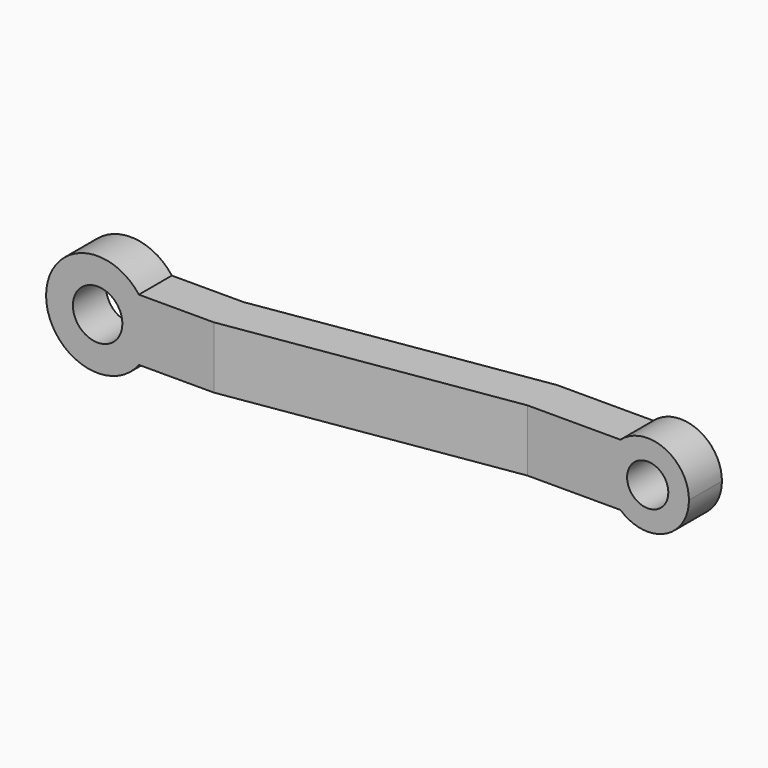
from build123d import *

# Parameters (mm, degrees)
F0_R     = 5
F0_R_2   = 6
F1_DEPTH = 12.5
F3_DEPTH = 12.5


with BuildPart() as f1:
    # F0 (on Front) → F1 (new body, symmetric)
    with BuildSketch(Plane.XZ):
        with BuildLine():
            ThreePointArc((10, 7.5), (11.858541, 3.952847), (12.5, 0))
            ThreePointArc((12.5, 0), (11.858541, -3.952847), (10, -7.5))
            Line((10, -7.5), (118.385622, -7.5))
            ThreePointArc((118.385622, -7.5), (115, 0), (118.385622, 7.5))
            Line((118.385622, 7.5), (10, 7.5))
        make_face()
        with BuildLine():
            ThreePointArc((135, 0), (129.114378, 9.114378), (118.385622, 7.5))
            ThreePointArc((118.385622, 7.5), (115, 0), (118.385622, -7.5))
            ThreePointArc((118.385622, -7.5), (129.114378, -9.114378), (135, 0))
        make_face()
        with Locations((125, 0)):
            Circle(F0_R, mode=Mode.SUBTRACT)
        with BuildLine():
            ThreePointArc((10, -7.5), (11.858541, -3.952847), (12.5, 0))
            ThreePointArc((12.5, 0), (11.858541, 3.952847), (10, 7.5))
            ThreePointArc((10, 7.5), (-12.5, 0), (10, -7.5))
        make_face()
        Circle(F0_R_2, mode=Mode.SUBTRACT)
    extrude(amount=F1_DEPTH, both=True)

    # F2 (on Top) → F3 (intersect, symmetric)
    with BuildSketch(Plane.XY):
        Polygon((27.408045, 0), (-19.638073, 0), (-19.638073, -10), (28.180582, -10), (95.801556, 0.51067), (143.513262, 0.51067), (143.513262, 10.51067), (95.029019, 10.51067), align=None)
    extrude(amount=F3_DEPTH, both=True, mode=Mode.INTERSECT)


solid = f1.part
